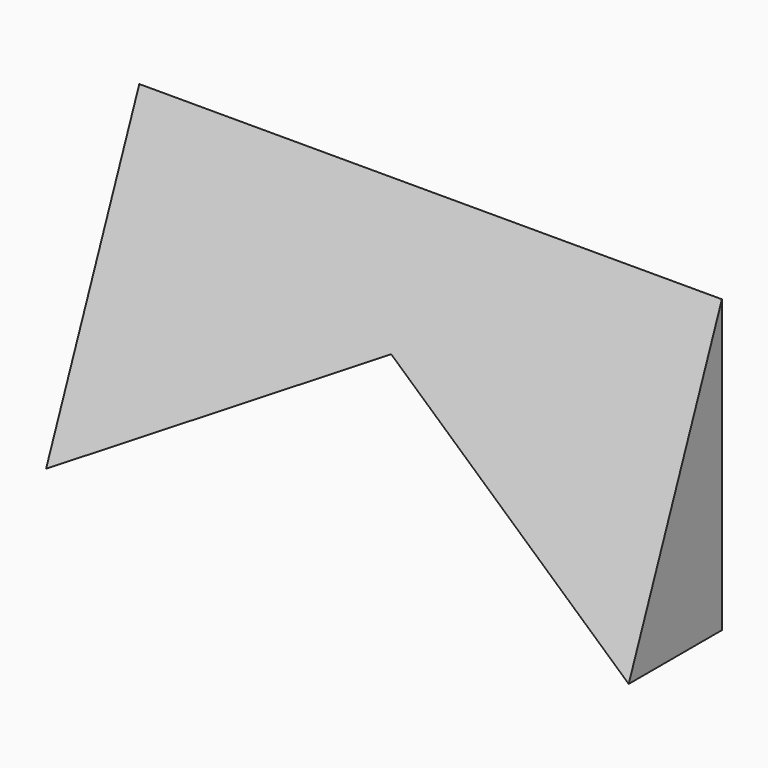
from build123d import *

# Parameters (mm, degrees)
F1_DEPTH = 25.4
F3_DEPTH = 127


with BuildPart() as f1:
    # F0 (on Front) → F1 (new body)
    with BuildSketch(Plane.XZ):
        Polygon((86.193442, 22.297869), (-40.806558, 22.297869), (-40.806558, -41.202131), (22.693442, -4.540389), (86.193442, -41.202131), align=None)
    extrude(amount=F1_DEPTH)

    # F2 (on face) → F3 (cut)
    with BuildSketch(Plane.YZ.offset(86.193442)):
        Polygon((-25.4, 22.297869), (-25.4, -41.202131), (0, 22.297869), align=None)
    extrude(amount=-F3_DEPTH, mode=Mode.SUBTRACT)


solid = f1.part
